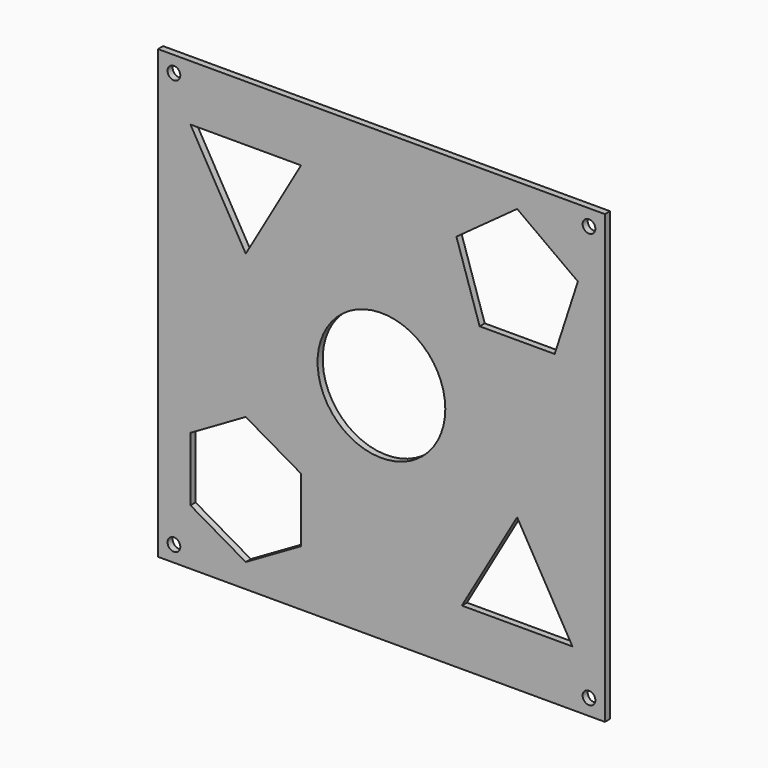
from build123d import *

# Parameters (mm, degrees)
SKETCH_W     = 140
SKETCH_H     = 140
SKETCH_R     = 20
PAD_DEPTH    = 2
SKETCH001_R  = 2
POCKET_DEPTH = 2.001


with BuildPart() as part:
    # Sketch → Pad (new body)
    with BuildSketch(Plane.XZ):
        Rectangle(SKETCH_W, SKETCH_H)
        Circle(SKETCH_R, mode=Mode.SUBTRACT)
        Polygon((-42.5, 22.5), (-25.179492, 52.5), (-59.820508, 52.5), align=None, mode=Mode.SUBTRACT)
        Polygon((42.5, -22.5), (25.179492, -52.5), (59.820508, -52.5), align=None, mode=Mode.SUBTRACT)
        Polygon((54.255705, 26.31966), (61.52113, 48.68034), (42.5, 62.5), (23.47887, 48.68034), (30.744295, 26.31966), align=None, mode=Mode.SUBTRACT)
        Polygon((-42.5, -22.5), (-59.820508, -32.5), (-59.820508, -52.5), (-42.5, -62.5), (-25.179492, -52.5), (-25.179492, -32.5), align=None, mode=Mode.SUBTRACT)
    extrude(amount=PAD_DEPTH)

    # Sketch001 (on Face24 of Pad) → Pocket (cut, through all)
    with BuildSketch(Plane.XZ.offset(2)):
        with Locations((-65, 65)):
            Circle(SKETCH001_R)
        with Locations((65, 65)):
            Circle(SKETCH001_R)
        with Locations((65, -65)):
            Circle(SKETCH001_R)
        with Locations((-65, -65)):
            Circle(SKETCH001_R)
    extrude(amount=-POCKET_DEPTH, mode=Mode.SUBTRACT)


solid = part.part
